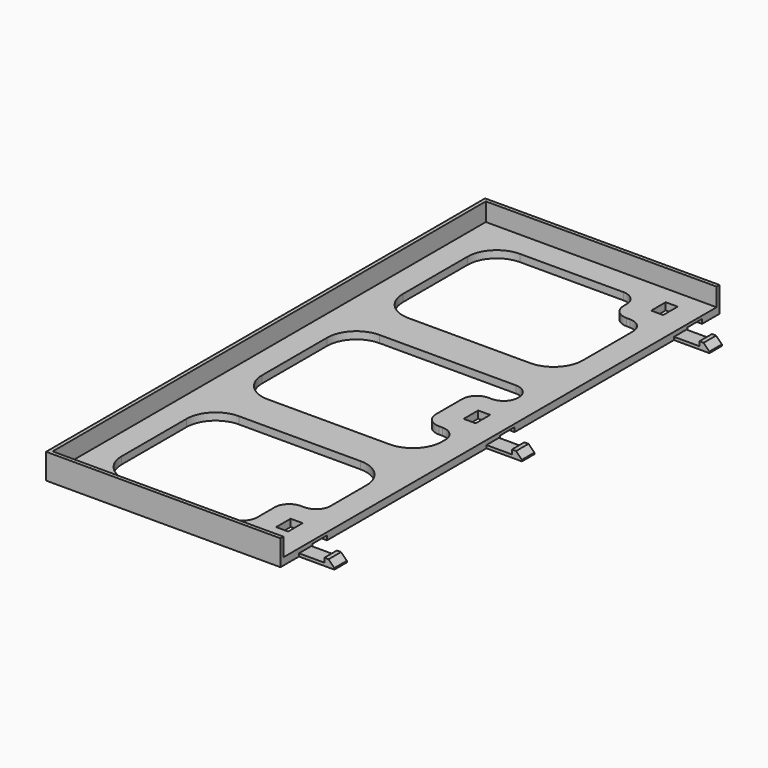
from build123d import *

# Parameters (mm, degrees)
F0_W      = 64.5
F0_H      = 151
F1_DEPTH  = 2
F3_DEPTH  = 5
F4_W      = 5
F4_H      = 1.2
F5_DEPTH  = 10
F6_W      = 4.3
F6_H      = 0.8
F7_DEPTH  = 9.75
F8_W      = 2.75
F8_H      = 4.3
F9_DEPTH  = 1.2
F10_W     = 2.75
F10_H     = 4.3
F11_DEPTH = 1.2
F12_W     = 2.75
F12_H     = 4.3
F13_DEPTH = 1.2
F14_W     = 3.3
F14_H     = 5
F15_DEPTH = 5.801
F16_W     = 3.3
F16_H     = 5
F17_DEPTH = 5.801
F18_W     = 3.3
F18_H     = 5
F19_DEPTH = 5.801
F20_SIZE  = 1.6
F22_DEPTH = 2.001
F23_R     = 4
F24_R     = 8


with BuildPart() as f1:
    # F0 (on Top) → F1 (new body)
    with BuildSketch(Plane.XY):
        with Locations((32.25, 75.5)):
            Rectangle(F0_W, F0_H)
    extrude(amount=F1_DEPTH)

    # F2 (on face) → F3 (join)
    with BuildSketch(Plane.XY.offset(2)):
        Polygon((64.5, 150), (64.5, 151), (0, 151), (0, 0), (64.5, 0), (64.5, 1), (1, 1), (1, 150), align=None)
    extrude(amount=F3_DEPTH)

    # F4 (on face) → F5 (cut)
    with BuildSketch(Plane.YZ.offset(64.5)):
        with Locations((142.5, 0.6)):
            Rectangle(F4_W, F4_H)
        with Locations((78, 0.6)):
            Rectangle(F4_W, F4_H)
        with Locations((13.5, 0.6)):
            Rectangle(F4_W, F4_H)
    extrude(amount=-F5_DEPTH, mode=Mode.SUBTRACT)

    # F6 (on face) → F7 (join)
    with BuildSketch(Plane.YZ.offset(64.5)):
        with Locations((8.5, 0.4)):
            Rectangle(F6_W, F6_H)
        with Locations((73, 0.4)):
            Rectangle(F6_W, F6_H)
        with Locations((137.5, 0.4)):
            Rectangle(F6_W, F6_H)
    extrude(amount=F7_DEPTH)

    # F8 (on face) → F9 (join)
    with BuildSketch(Plane.XY.offset(0.8)):
        with Locations((72.875, 8.5)):
            Rectangle(F8_W, F8_H)
    extrude(amount=F9_DEPTH)

    # F10 (on face) → F11 (join)
    with BuildSketch(Plane.XY.offset(0.8)):
        with Locations((72.875, 73)):
            Rectangle(F10_W, F10_H)
    extrude(amount=F11_DEPTH)

    # F12 (on face) → F13 (join)
    with BuildSketch(Plane.XY.offset(0.8)):
        with Locations((72.875, 137.5)):
            Rectangle(F12_W, F12_H)
    extrude(amount=F13_DEPTH)

    # F14 (on face) → F15 (cut, through all)
    with BuildSketch(Plane(origin=(0, 0, 1.2), x_dir=(1, 0, 0), z_dir=(0, 0, -1))):
        with Locations((56.15, -13.5)):
            Rectangle(F14_W, F14_H)
    extrude(amount=-F15_DEPTH, mode=Mode.SUBTRACT)

    # F16 (on face) → F17 (cut, through all)
    with BuildSketch(Plane(origin=(0, 0, 1.2), x_dir=(1, 0, 0), z_dir=(0, 0, -1))):
        with Locations((56.15, -78)):
            Rectangle(F16_W, F16_H)
    extrude(amount=-F17_DEPTH, mode=Mode.SUBTRACT)

    # F18 (on face) → F19 (cut, through all)
    with BuildSketch(Plane(origin=(0, 0, 1.2), x_dir=(1, 0, 0), z_dir=(0, 0, -1))):
        with Locations((56.15, -142.5)):
            Rectangle(F18_W, F18_H)
    extrude(amount=-F19_DEPTH, mode=Mode.SUBTRACT)

    # F20
    f20_edges = [f1.edges().sort_by_distance(p)[0] for p in [
        (74.25, 8.5, 2),
        (74.25, 73, 2),
        (74.25, 137.5, 2),
    ]]
    chamfer(f20_edges, length=F20_SIZE)

    # F21 (on face) → F22 (cut, through all)
    with BuildSketch(Plane.XY.offset(2)):
        Polygon((8, 143), (8, 104.7), (57.5, 104.7), (57.5, 134), (48.5, 134), (48.5, 143), align=None)
        Polygon((8, 56.3), (57.5, 56.3), (57.5, 69.5), (48.5, 69.5), (48.5, 86.5), (57.5, 86.5), (57.5, 94.7), (8, 94.7), align=None)
        Polygon((8, 46.3), (8, 8), (48.5, 8), (48.5, 22), (57.5, 22), (57.5, 46.3), align=None)
    extrude(amount=-F22_DEPTH, mode=Mode.SUBTRACT)

    # F23
    f23_edges = [f1.edges().sort_by_distance(p)[0] for p in [
        (48.5, 134, 1),
        (48.5, 143, 1),
        (57.5, 134, 1),
        (57.5, 94.7, 1),
        (48.5, 86.5, 1),
        (48.5, 69.5, 1),
        (57.5, 69.5, 1),
        (48.5, 22, 1),
        (57.5, 86.5, 1),
        (57.5, 22, 1),
        (48.5, 8, 1),
    ]]
    fillet(f23_edges, radius=F23_R)

    # F24
    f24_edges = [f1.edges().sort_by_distance(p)[0] for p in [
        (8, 8, 1),
        (8, 56.3, 1),
        (8, 104.7, 1),
        (8, 46.3, 1),
        (8, 94.7, 1),
        (8, 143, 1),
        (57.5, 104.7, 1),
        (57.5, 56.3, 1),
        (57.5, 46.3, 1),
    ]]
    fillet(f24_edges, radius=F24_R)


solid = f1.part
